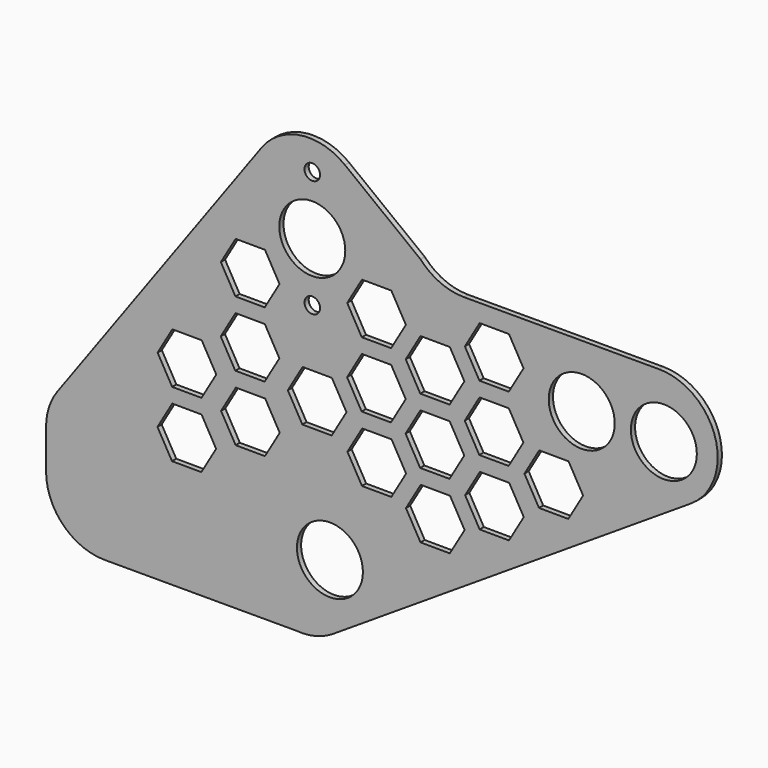
from build123d import *

# Parameters (mm, degrees)
F0_R     = 14.2875
F0_R_2   = 3.373438
F1_DEPTH = 2.286


with BuildPart() as f1:
    # F0 (on Front) → F1 (new body)
    with BuildSketch(Plane.XZ):
        with BuildLine():
            ThreePointArc((-34.573266, -67.66252), (-26.367008, -66.963304), (-18.815872, -63.675156))
            Line((-18.815872, -63.675156), (136.129614, 36.414264))
            ThreePointArc((136.129614, 36.414264), (146.710231, 64.934436), (122.34748, 83.14998))
            Line((122.34748, 83.14998), (37.837742, 83.14998))
            ThreePointArc((37.837742, 83.14998), (27.550148, 85.3266), (19.025718, 91.483412))
            Line((19.025718, 91.483412), (-13.74376, 116.798291))
            ThreePointArc((-13.74376, 116.798291), (-32.877689, 121.840327), (-49.823331, 111.623939))
            Line((-49.823331, 111.623939), (-138.293377, -10.186806))
            ThreePointArc((-138.293377, -10.186806), (-141.899369, -17.266125), (-143.141887, -25.113168))
            Line((-143.141887, -25.113168), (-143.141887, -42.26252))
            ThreePointArc((-143.141887, -42.26252), (-135.7024, -60.223032), (-117.741887, -67.66252))
            Line((-117.741887, -67.66252), (-34.573266, -67.66252))
        make_face()
        with Locations((-20.212744, -35.91252)):
            Circle(F0_R, mode=Mode.SUBTRACT)
        Polygon((-75.897325, -20.576264), (-88.5972, -20.519901), (-94.898326, -9.493306), (-88.499577, 1.476927), (-75.799702, 1.420565), (-69.498576, -9.606031), align=None, mode=Mode.SUBTRACT)
        Polygon((-75.839717, 7.770723), (-88.539592, 7.827085), (-94.840718, 18.853681), (-88.441969, 29.823914), (-75.742094, 29.767551), (-69.440968, 18.740956), align=None, mode=Mode.SUBTRACT)
        Polygon((-48.344767, -5.516115), (-61.044642, -5.459752), (-67.345768, 5.566844), (-60.947019, 16.537077), (-48.247144, 16.480714), (-41.946018, 5.454118), align=None, mode=Mode.SUBTRACT)
        Polygon((6.38129, -3.277528), (-6.318585, -3.221165), (-12.619711, 7.80543), (-6.220962, 18.775663), (6.478913, 18.719301), (12.780039, 7.692705), align=None, mode=Mode.SUBTRACT)
        Polygon((-19.443963, 11.747547), (-32.143838, 11.80391), (-38.444964, 22.830506), (-32.046215, 33.800739), (-19.34634, 33.744376), (-13.045214, 22.71778), align=None, mode=Mode.SUBTRACT)
        Polygon((31.725593, -16.542709), (19.025718, -16.486347), (12.724592, -5.459751), (19.123341, 5.510482), (31.823216, 5.454119), (38.124342, -5.572476), align=None, mode=Mode.SUBTRACT)
        Polygon((31.570362, 11.803911), (18.870487, 11.860274), (12.569361, 22.886869), (18.96811, 33.857102), (31.667985, 33.80074), (37.969111, 22.774144), align=None, mode=Mode.SUBTRACT)
        Polygon((57.344158, -3.27753), (44.644283, -3.221167), (38.343157, 7.805429), (44.741906, 18.775662), (57.441781, 18.719299), (63.742907, 7.692703), align=None, mode=Mode.SUBTRACT)
        Polygon((83.04678, 13.283836), (70.346906, 13.340383), (64.04594, 24.367071), (70.444848, 35.337211), (83.144723, 35.280663), (89.445688, 24.253976), align=None, mode=Mode.SUBTRACT)
        Polygon((-48.499998, 22.830506), (-61.199873, 22.886868), (-67.500999, 33.913464), (-61.10225, 44.883697), (-48.402375, 44.827334), (-42.101249, 33.800739), align=None, mode=Mode.SUBTRACT)
        Polygon((6.226059, 25.069092), (-6.473816, 25.125455), (-12.774942, 36.152051), (-6.376193, 47.122284), (6.323682, 47.065921), (12.624808, 36.039325), align=None, mode=Mode.SUBTRACT)
        Polygon((-48.44239, 51.177492), (-61.142265, 51.233855), (-67.443391, 62.260451), (-61.044642, 73.230684), (-48.344767, 73.174321), (-42.043641, 62.147725), align=None, mode=Mode.SUBTRACT)
        with Locations((-27.847204, 58.683684)):
            Circle(F0_R_2, mode=Mode.SUBTRACT)
        Polygon((6.283667, 53.416079), (-6.416208, 53.472442), (-12.717334, 64.499037), (-6.318585, 75.46927), (6.38129, 75.412908), (12.682416, 64.386312), align=None, mode=Mode.SUBTRACT)
        with Locations((-27.847204, 84.083684)):
            Circle(F0_R, mode=Mode.SUBTRACT)
        with Locations((-27.847204, 109.483684)):
            Circle(F0_R_2, mode=Mode.SUBTRACT)
        Polygon((57.188926, 25.06909), (44.489052, 25.125453), (38.187926, 36.152049), (44.586675, 47.122282), (57.28655, 47.065919), (63.587675, 36.039323), align=None, mode=Mode.SUBTRACT)
        Polygon((31.62797, 40.150898), (18.928095, 40.20726), (12.626969, 51.233856), (19.025718, 62.204089), (31.725593, 62.147726), (38.026719, 51.121131), align=None, mode=Mode.SUBTRACT)
        Polygon((57.246534, 53.416077), (44.54666, 53.47244), (38.245534, 64.499036), (44.644283, 75.469269), (57.344158, 75.412906), (63.645284, 64.38631), align=None, mode=Mode.SUBTRACT)
        with Locations((88.855389, 56.16248)):
            Circle(F0_R, mode=Mode.SUBTRACT)
        with Locations((124.415389, 56.16248)):
            Circle(F0_R, mode=Mode.SUBTRACT)
    extrude(amount=F1_DEPTH)


solid = f1.part
